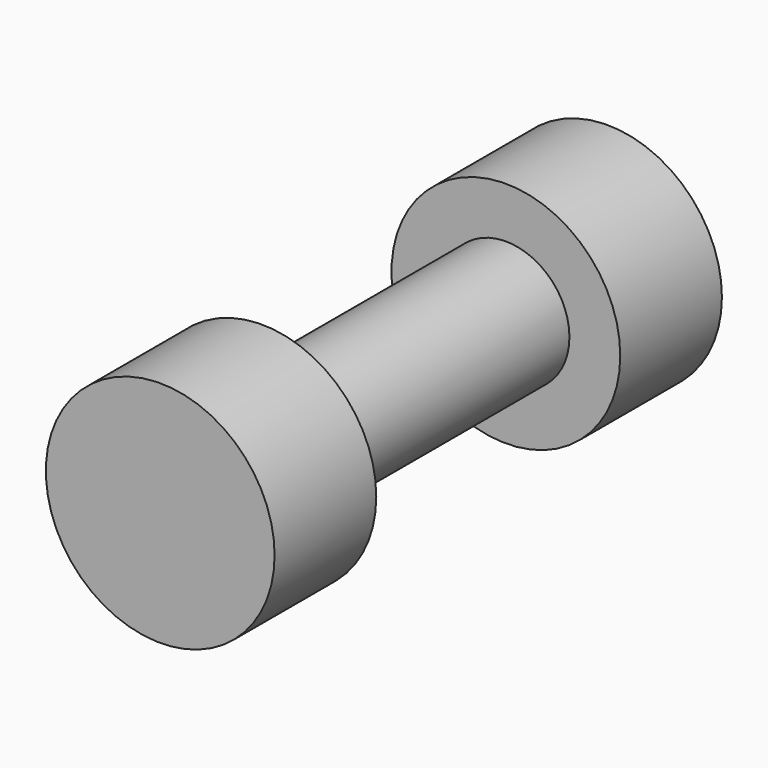
from build123d import *

# Parameters (mm, degrees)
F0_R     = 6.35
F1_DEPTH = 15.24
F2_R     = 11.43
F2_R_2   = 6.35
F3_DEPTH = 12.7


with BuildPart() as f1:
    # F0 (on Front) → F1 (new body)
    with BuildSketch(Plane.XZ):
        Circle(F0_R)
    extrude(amount=F1_DEPTH)

    # F2 (on face) → F3 (join)
    with BuildSketch(Plane.XZ.offset(15.24)):
        Circle(F2_R)
        Circle(F2_R_2, mode=Mode.SUBTRACT)
        Circle(F2_R_2)
    extrude(amount=F3_DEPTH)

    # F4: F1 across plane


with BuildPart() as f1_1:
    add(f1.part)
    add(f1.part.mirror(Plane.XZ))


solid = f1_1.part
